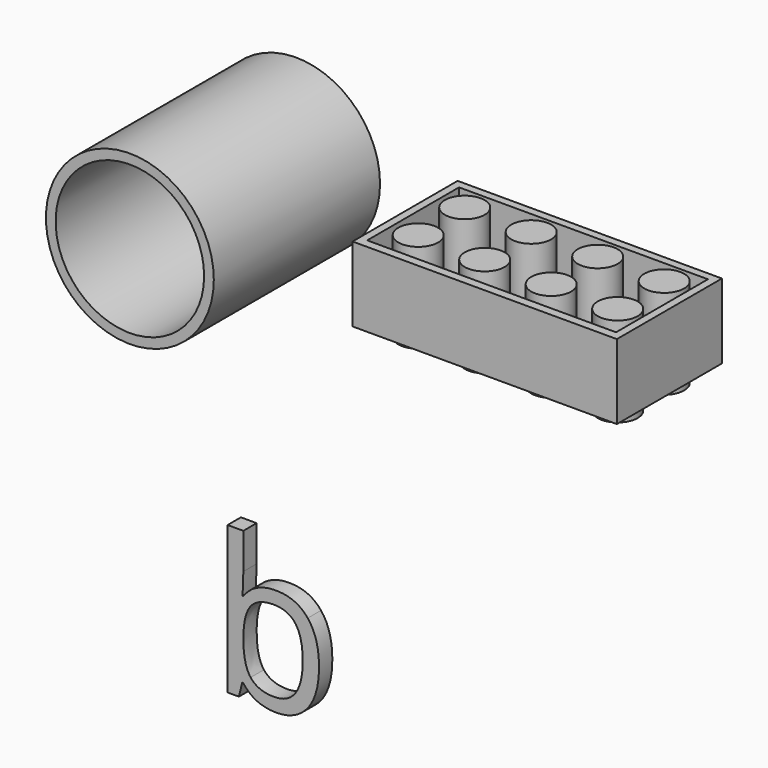
from build123d import *

# Parameters (mm, degrees)
F0_W     = 31.8
F0_H     = 15.8
F0_W_2   = 29.9425181001
F0_H_2   = 13.8138793409
F1_DEPTH = 9
F2_R     = 2.4
F3_DEPTH = 10.8
F4_R     = 10.1000236813
F4_R_2   = 8.9326569629
F5_DEPTH = 25
F6_DEPTH = 2


with BuildPart() as f1:
    # F0 (on Top) → F1 (new body)
    with BuildSketch(Plane.XY):
        with Locations((-2.869211603, -0.9375357135)):
            Rectangle(F0_W, F0_H)
        with Locations((-2.8689606115, -0.8908784948)):
            Rectangle(F0_W_2, F0_H_2, mode=Mode.SUBTRACT)
    extrude(amount=F1_DEPTH)


with BuildPart() as f3:
    # F2 (on face) → F3 (new body)
    with BuildSketch(Plane.XY.offset(9)):
        with Locations((-14.869211603, 3.1560885722)):
            Circle(F2_R)
    extrude(amount=-F3_DEPTH)


with BuildPart() as f3b:
    # F2 (on face) → F3, piece 2 (new body)
    with BuildSketch(Plane.XY.offset(9)):
        with Locations((-6.869211603, 3.1560885722)):
            Circle(F2_R)
    extrude(amount=-F3_DEPTH)


with BuildPart() as f3c:
    # F2 (on face) → F3, piece 3 (new body)
    with BuildSketch(Plane.XY.offset(9)):
        with Locations((1.130788397, 3.1560885722)):
            Circle(F2_R)
    extrude(amount=-F3_DEPTH)


with BuildPart() as f3d:
    # F2 (on face) → F3, piece 4 (new body)
    with BuildSketch(Plane.XY.offset(9)):
        with Locations((9.130788397, 3.1560885722)):
            Circle(F2_R)
    extrude(amount=-F3_DEPTH)


with BuildPart() as f3e:
    # F2 (on face) → F3, piece 5 (new body)
    with BuildSketch(Plane.XY.offset(9)):
        with Locations((-14.76457, -3.9676)):
            Circle(F2_R)
    extrude(amount=-F3_DEPTH)


with BuildPart() as f3f:
    # F2 (on face) → F3, piece 6 (new body)
    with BuildSketch(Plane.XY.offset(9)):
        with Locations((-6.76457, -3.9676)):
            Circle(F2_R)
    extrude(amount=-F3_DEPTH)


with BuildPart() as f3g:
    # F2 (on face) → F3, piece 7 (new body)
    with BuildSketch(Plane.XY.offset(9)):
        with Locations((1.23543, -3.9676)):
            Circle(F2_R)
    extrude(amount=-F3_DEPTH)


with BuildPart() as f3h:
    # F2 (on face) → F3, piece 8 (new body)
    with BuildSketch(Plane.XY.offset(9)):
        with Locations((9.23543, -3.9676)):
            Circle(F2_R)
    extrude(amount=-F3_DEPTH)


with BuildPart() as f5:
    # F4 (on Front) → F5 (new body)
    with BuildSketch(Plane.XZ):
        with Locations((-52.6328161359, -6.3741654158)):
            Circle(F4_R)
        with Locations((-52.6328161359, -6.3741654158)):
            Circle(F4_R_2, mode=Mode.SUBTRACT)
    extrude(amount=-F5_DEPTH)


with BuildPart() as f6:
    # F4 (on Front) → F6 (new body)
    with BuildSketch(Plane.XZ):
        with BuildLine():
            add(Edge.make_bspline(
                [(-35.0586663828, -36.8523016239), (-32.5962869667, -36.8523016239), (-31.2337703565, -38.5340155659)],
                knots=[0, 0, 0, 1, 1, 1], degree=2))
            add(Edge.make_bspline(
                [(-38.980233601, -38.7200620106), (-37.6596686401, -36.8523016239), (-35.0586663828, -36.8523016239)],
                knots=[0, 0, 0, 1, 1, 1], degree=2))
            Line((-38.980233601, -38.7200620106), (-39.0714328387, -38.7200620106))
            add(Edge.make_bspline(
                [(-38.980233601, -36.1227077228), (-38.980233601, -37.5709516164), (-39.0714328387, -38.7200620106)],
                knots=[0, 0, 0, 1, 1, 1], degree=2))
            Line((-38.980233601, -36.1227077228), (-38.980233601, -31.8108077675))
            Line((-38.980233601, -31.8108077675), (-40.8735297743, -31.8108077675))
            Line((-40.8735297743, -31.8108077675), (-40.8735297743, -49.550883472))
            Line((-40.8735297743, -49.550883472), (-39.5164851183, -49.550883472))
            Line((-39.5164851183, -49.550883472), (-39.1188564423, -47.9421289201))
            Line((-39.1188564423, -47.9421289201), (-38.980233601, -47.9421289201))
            add(Edge.make_bspline(
                [(-37.2893997353, -49.3301813169), (-38.2980633036, -48.879657083), (-38.980233601, -47.9421289201)],
                knots=[0, 0, 0, 1, 1, 1], degree=2))
            add(Edge.make_bspline(
                [(-35.0586663828, -49.7807055508), (-36.2807361671, -49.7807055508), (-37.2893997353, -49.3301813169)],
                knots=[0, 0, 0, 1, 1, 1], degree=2))
            add(Edge.make_bspline(
                [(-31.244714265, -48.0752798071), (-32.6181747837, -49.7807055508), (-35.0586663828, -49.7807055508)],
                knots=[0, 0, 0, 1, 1, 1], degree=2))
            add(Edge.make_bspline(
                [(-29.8712537462, -43.2909678008), (-29.8712537462, -46.3698540633), (-31.244714265, -48.0752798071)],
                knots=[0, 0, 0, 1, 1, 1], degree=2))
            add(Edge.make_bspline(
                [(-31.2337703565, -38.5340155659), (-29.8712537462, -40.2157295078), (-29.8712537462, -43.2909678008)],
                knots=[0, 0, 0, 1, 1, 1], degree=2))
        make_face()
        with BuildLine():
            add(Edge.make_bspline(
                [(-35.3322640957, -38.4355203892), (-37.269335903, -38.4355203892), (-38.124784752, -39.5463271036)],
                knots=[0, 0, 0, 1, 1, 1], degree=2))
            add(Edge.make_bspline(
                [(-32.6893101891, -39.632054387), (-33.5447590381, -38.4355203892), (-35.3322640957, -38.4355203892)],
                knots=[0, 0, 0, 1, 1, 1], degree=2))
            add(Edge.make_bspline(
                [(-31.8338613401, -43.2690799838), (-31.8338613401, -40.8285883847), (-32.6893101891, -39.632054387)],
                knots=[0, 0, 0, 1, 1, 1], degree=2))
            add(Edge.make_bspline(
                [(-32.6893101891, -46.9225214434), (-31.8338613401, -45.6512040708), (-31.8338613401, -43.2690799838)],
                knots=[0, 0, 0, 1, 1, 1], degree=2))
            add(Edge.make_bspline(
                [(-35.2884884616, -48.193838816), (-33.5447590381, -48.193838816), (-32.6893101891, -46.9225214434)],
                knots=[0, 0, 0, 1, 1, 1], degree=2))
            add(Edge.make_bspline(
                [(-38.102896935, -47.0593202998), (-37.225560269, -48.193838816), (-35.2884884616, -48.193838816)],
                knots=[0, 0, 0, 1, 1, 1], degree=2))
            add(Edge.make_bspline(
                [(-38.980233601, -43.2909678008), (-38.980233601, -45.9248017837), (-38.102896935, -47.0593202998)],
                knots=[0, 0, 0, 1, 1, 1], degree=2))
            add(Edge.make_bspline(
                [(-38.124784752, -39.5463271036), (-38.980233601, -40.657133818), (-38.980233601, -43.2909678008)],
                knots=[0, 0, 0, 1, 1, 1], degree=2))
        make_face(mode=Mode.SUBTRACT)
    extrude(amount=-F6_DEPTH)


solid = Compound([f1.part, f3.part, f3b.part, f3c.part, f3d.part, f3e.part, f3f.part, f3g.part, f3h.part, f5.part, f6.part])
